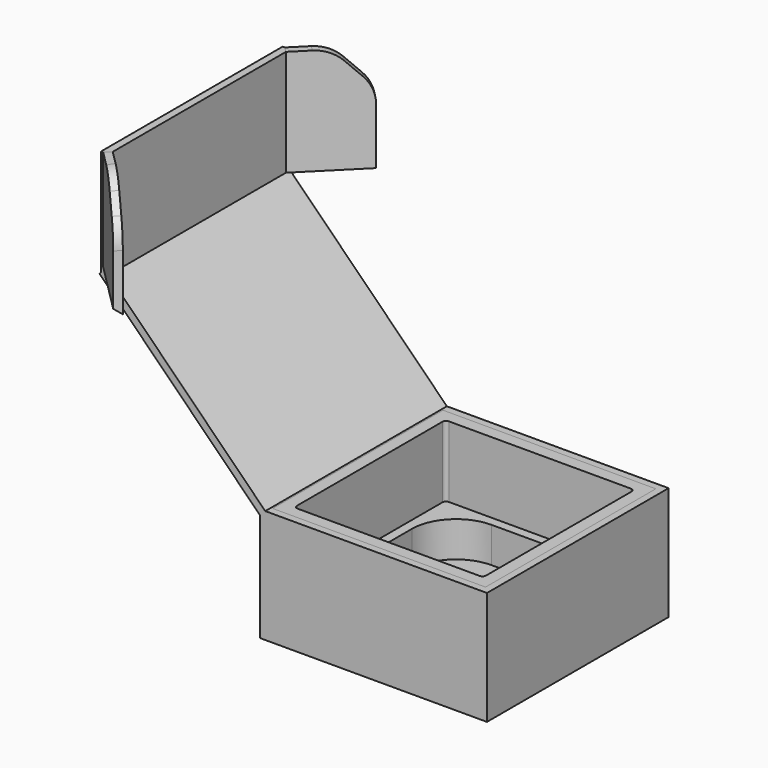
from build123d import *

# Parameters (mm, degrees)
SKETCH_W           = 120
SKETCH_H           = 120
PAD_DEPTH          = 40
SKETCH001_W        = 120
SKETCH001_H        = 120
PAD001_DEPTH       = 20
SKETCH002_W        = 128
SKETCH002_H        = 128
PAD002_DEPTH       = 4
SKETCH003_W        = 128
SKETCH003_H        = 128
SKETCH003_W_2      = 120
SKETCH003_H_2      = 120
PAD003_DEPTH       = 60
CHAMFER_SIZE       = 3
CHAMFER_FACE3_W    = 128
CHAMFER_FACE3_H    = 4.24264
PAD004_DEPTH       = 128
CHAMFER001_SIZE    = 3
CHAMFER001_FACE3_W = 128
CHAMFER001_FACE3_H = 4.24264
PAD005_DEPTH       = 60
CHAMFER002_SIZE    = 3
PAD006_DEPTH       = 40
PAD007_DEPTH       = 40
CHAMFER003_SIZE    = 20
FILLET_R           = 20


with BuildPart() as upper:
    # Sketch → Pad (new body)
    with BuildSketch(Plane.XY):
        Rectangle(SKETCH_W, SKETCH_H)
        with BuildLine():
            Line((-51.3, -53.3), (51.3, -53.3))
            ThreePointArc((51.3, -53.3), (52.714214, -52.714214), (53.3, -51.3))
            Line((53.3, -51.3), (53.3, 51.3))
            ThreePointArc((53.3, 51.3), (52.714214, 52.714214), (51.3, 53.3))
            Line((51.3, 53.3), (-51.3, 53.3))
            ThreePointArc((-51.3, 53.3), (-52.714214, 52.714214), (-53.3, 51.3))
            Line((-53.3, 51.3), (-53.3, -51.3))
            ThreePointArc((-53.3, -51.3), (-52.714214, -52.714214), (-51.3, -53.3))
        make_face(mode=Mode.SUBTRACT)
    extrude(amount=PAD_DEPTH)


with BuildPart() as lower:
    # Sketch001 → Pad001 (new body)
    with BuildSketch(Plane.XY):
        Rectangle(SKETCH001_W, SKETCH001_H)
        with BuildLine():
            Line((-23, -48), (23, -48))
            ThreePointArc((23, -48), (40.67767, -40.67767), (48, -23))
            Line((48, -23), (48, 23))
            ThreePointArc((48, 23), (40.67767, 40.67767), (23, 48))
            Line((23, 48), (-23, 48))
            ThreePointArc((-23, 48), (-40.67767, 40.67767), (-48, 23))
            Line((-48, 23), (-48, -23))
            ThreePointArc((-48, -23), (-40.67767, -40.67767), (-23, -48))
        make_face(mode=Mode.SUBTRACT)
    extrude(amount=-PAD001_DEPTH)


with BuildPart() as cardboard:
    # Sketch002 → Pad002 (new body)
    with BuildSketch(Plane.XY.offset(-20)):
        Rectangle(SKETCH002_W, SKETCH002_H)
    extrude(amount=-PAD002_DEPTH)

    # Sketch003 (on Face5 of Pad002) → Pad003 (join)
    with BuildSketch(Plane.XY.offset(-20)):
        Rectangle(SKETCH003_W, SKETCH003_H)
        Rectangle(SKETCH003_W_2, SKETCH003_H_2, mode=Mode.SUBTRACT)
    extrude(amount=PAD003_DEPTH)

    # Chamfer
    chamfer_edges = [cardboard.edges().sort_by_distance(p)[0] for p in [
        (-64, 0, 40),
    ]]
    chamfer(chamfer_edges, length=CHAMFER_SIZE)

    # Chamfer Face3 → Pad004 (add)
    with BuildSketch(Plane(origin=(-62.5, 0, 38.5), x_dir=(0, 1, 0), z_dir=(-0.707107, 0, 0.707107))):
        Rectangle(CHAMFER_FACE3_W, CHAMFER_FACE3_H)
    extrude(amount=PAD004_DEPTH)

    # Chamfer001
    chamfer001_edges = [cardboard.edges().sort_by_distance(p)[0] for p in [
        (-151.509668, 0, 130.509668),
    ]]
    chamfer(chamfer001_edges, length=CHAMFER001_SIZE)

    # Chamfer001 Face3 → Pad005 (add)
    with BuildSketch(Plane(origin=(-151.509668, 0, 128.388348), x_dir=(0, 1, 0), z_dir=(0, 0, 1))):
        Rectangle(CHAMFER001_FACE3_W, CHAMFER001_FACE3_H)
    extrude(amount=PAD005_DEPTH)

    # Chamfer002
    chamfer002_edges = [cardboard.edges().sort_by_distance(p)[0] for p in [
        (-149.388348, -64, 158.388348),
        (-149.388348, 64, 158.388348),
    ]]
    chamfer(chamfer002_edges, length=CHAMFER002_SIZE)

    # Chamfer002 Face4 → Pad006 (add)
    with BuildSketch(Plane(origin=(-150.875527, -62.487179, 159.131937), x_dir=(-0.707107, -0.707107, 0), z_dir=(0.707107, -0.707107, 0))):
        Polygon((2.139451, 27.74359), (-2.103189, 30.74359), (-2.103189, -29.25641), (2.139451, -29.25641), align=None)
    extrude(amount=PAD006_DEPTH)

    # Pad006 Face3 → Pad007 (add)
    with BuildSketch(Plane(origin=(-150.875527, 62.487179, 159.131937), x_dir=(0.707107, -0.707107, 0), z_dir=(0.707107, 0.707107, 0))):
        Polygon((2.103189, 30.74359), (-2.139451, 27.74359), (-2.139451, -29.25641), (2.103189, -29.25641), align=None)
    extrude(amount=PAD007_DEPTH)

    # Chamfer003
    chamfer003_edges = [cardboard.edges().sort_by_distance(p)[0] for p in [
        (-122.604076, -90.784271, 188.388348),
        (-122.604076, 90.784271, 188.388348),
    ]]
    chamfer(chamfer003_edges, length=CHAMFER003_SIZE)

    # Fillet
    fillet_edges = [cardboard.edges().sort_by_distance(p)[0] for p in [
        (-122.604076, -90.784271, 168.388348),
        (-136.746212, -76.642136, 188.388348),
        (-136.746212, 76.642136, 188.388348),
        (-122.604076, 90.784271, 168.388348),
    ]]
    fillet(fillet_edges, radius=FILLET_R)


solid = Compound([upper.part, lower.part, cardboard.part])
